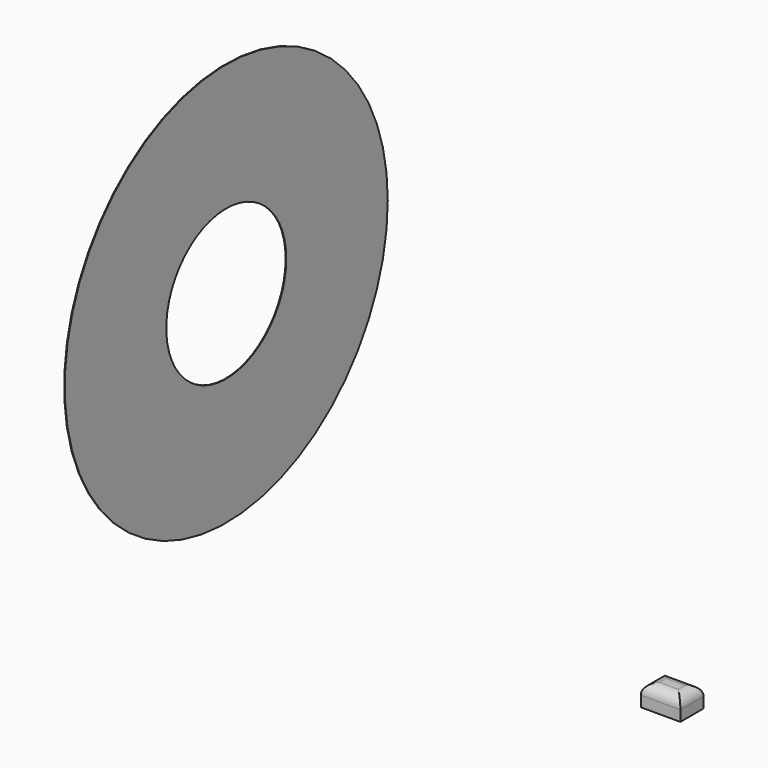
from build123d import *

# Parameters (mm, degrees)
F0_W     = 190.829366
F0_H     = 139.829591
F1_DEPTH = 102
F2_R     = 50
F4_R     = 972.989
F4_R_2   = 361.40794
F5_DEPTH = 3


with BuildPart() as f1:
    # F0 (on Top) → F1 (new body)
    with BuildSketch(Plane.XY):
        with Locations((-95.414683, -69.914795)):
            Rectangle(F0_W, F0_H)
    extrude(amount=-F1_DEPTH)

    # F2
    f2_edges = [f1.edges().sort_by_distance(p)[0] for p in [
        (0, -69.914795, 0),
        (-95.414683, 0, 0),
        (-190.829366, -69.914795, 0),
        (-95.414683, -139.829591, 0),
    ]]
    fillet(f2_edges, radius=F2_R)


with BuildPart() as f5:
    # F4 (on face) → F5 (new body)
    with BuildSketch(Plane.YZ):
        with Locations((-2879.230022, 2829.843521)):
            Circle(F4_R)
        with Locations((-2879.230022, 2829.843521)):
            Circle(F4_R_2, mode=Mode.SUBTRACT)
    extrude(amount=F5_DEPTH)


solid = Compound([f1.part, f5.part])
